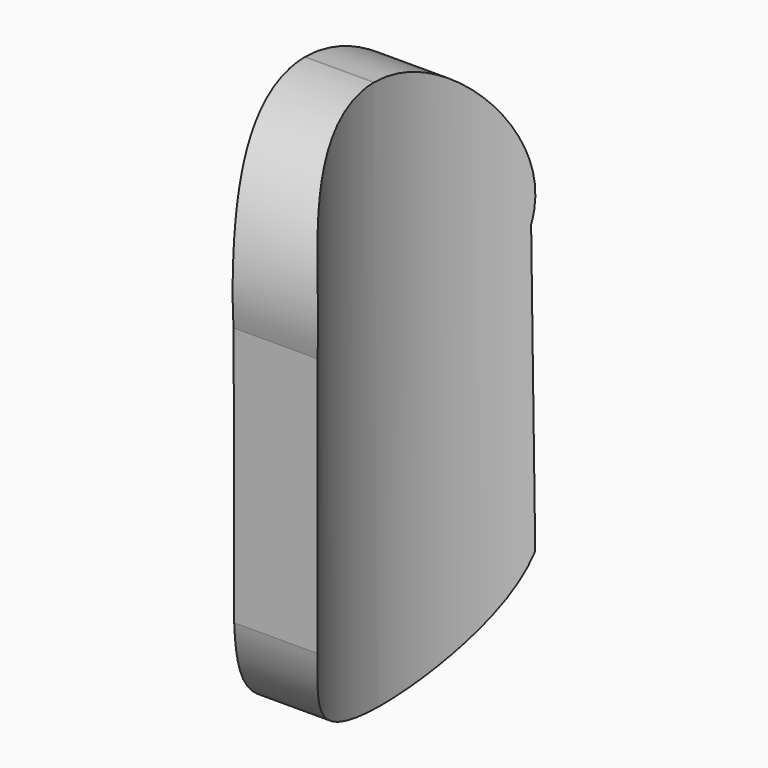
from build123d import *

# Parameters (mm, degrees)
F0_R     = 25.4
F0_R_2   = 19.05
F1_DEPTH = 25.4
F2_W     = 147.84576
F2_H     = 173.544198
F3_DEPTH = 25.4
F4_W     = 37.611994
F4_H     = 79.151291
F5_DEPTH = 266.7
F6_W     = 42.609616
F6_H     = 73.078748
F7_DEPTH = 25.4


with BuildPart() as f1:
    # F0 (on Top) → F1 (new body, symmetric)
    with BuildSketch(Plane.XY):
        Circle(F0_R)
        Circle(F0_R_2, mode=Mode.SUBTRACT)
    extrude(amount=F1_DEPTH, both=True)

    # F2 (on Right) → F3 (cut)
    with BuildSketch(Plane.YZ):
        with Locations((34.874953, 36.60303)):
            Rectangle(F2_W, F2_H)
        with BuildLine():
            ThreePointArc((-12.461033, 9.493424), (-0.56618, 25.393981), (12.291056, 10.261012))
            Line((12.291056, 10.261012), (12.518928, -16.22196))
            ThreePointArc((12.518928, -16.22196), (-0.562456, -25.369898), (-12.25456, -14.502419))
            Line((-12.25456, -14.502419), (-12.461033, 9.493424))
        make_face(mode=Mode.SUBTRACT)
    extrude(amount=-F3_DEPTH, mode=Mode.SUBTRACT)

    # F4 (on Front) → F5 (cut, symmetric)
    with BuildSketch(Plane.XZ):
        with Locations((15.86056, -0.339897)):
            Rectangle(F4_W, F4_H)
    extrude(amount=F5_DEPTH, both=True, mode=Mode.SUBTRACT)

    # F6 (on Front) → F7 (cut, symmetric)
    with BuildSketch(Plane.XZ):
        with Locations((15.940909, -4.051024)):
            Rectangle(F6_W, F6_H)
    extrude(amount=F7_DEPTH, both=True, mode=Mode.SUBTRACT)


solid = f1.part
